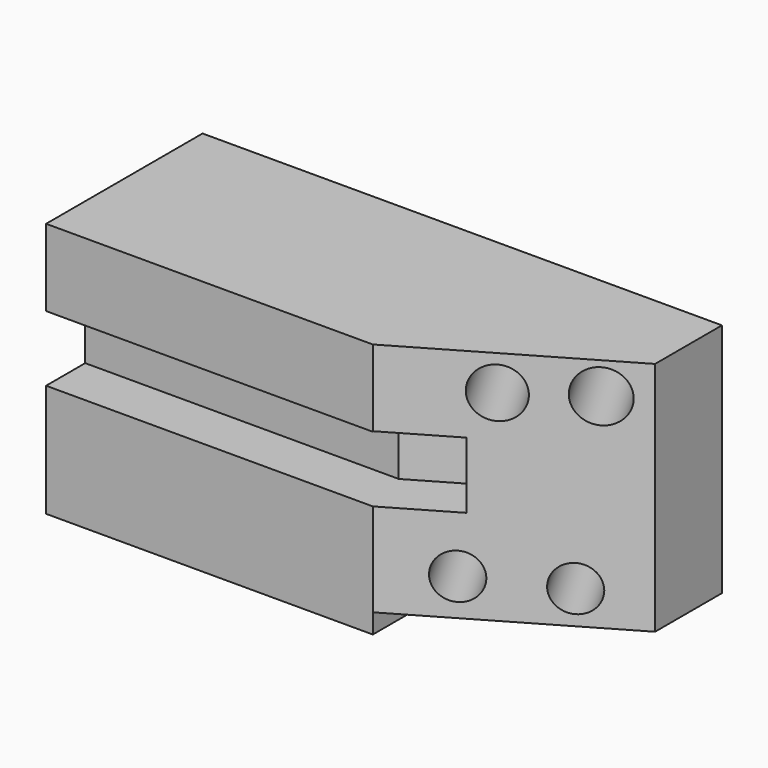
from build123d import *

# Parameters (mm, degrees)
F0_W      = 134.9061876535
F0_H      = 66.3261953741
F1_DEPTH  = 50.8
F3_DEPTH  = 66.3271953741
F4_W      = 84.8675490558
F4_H      = 17.0645080507
F5_DEPTH  = 12.7
F7_DEPTH  = 12.7
F8_R      = 5.8831218442
F9_DEPTH  = 86.5717253991
F10_R     = 5.86386151
F10_R_2   = 6.47563258
F10_R_3   = 6.6609419445
F11_DEPTH = 86.5717253991
F13_DEPTH = 5.08


with BuildPart() as f1:
    # F0 (on Front) → F1 (new body)
    with BuildSketch(Plane.XZ):
        with Locations((2.2538006306, 3.86366155)):
            Rectangle(F0_W, F0_H)
    extrude(amount=F1_DEPTH)

    # F2 (on face) → F3 (cut, through all)
    with BuildSketch(Plane(origin=(0, 0, -29.2994361371), x_dir=(1, 0, 0), z_dir=(0, 0, -1))):
        Polygon((69.7068944573, 50.8), (19.6682558596, 50.8), (69.7068944573, 21.7111355625), align=None)
    extrude(amount=-F3_DEPTH, mode=Mode.SUBTRACT)

    # F4 (on face) → F5 (cut)
    with BuildSketch(Plane.XZ.offset(50.8)):
        with Locations((-22.7655186683, 8.5322540253)):
            Rectangle(F4_W, F4_H)
    extrude(amount=-F5_DEPTH, mode=Mode.SUBTRACT)

    # F6 (on face) → F7 (cut)
    with BuildSketch(Plane(origin=(27.0401800955, -46.5144936243, 0), x_dir=(0.864532465, 0.5025769761, 0), z_dir=(0.5025769761, -0.864532465, 0))):
        Polygon((-8.527064667, 17.0645080507), (-8.527064667, 0), (10.6996493414, 0), (10.6996493414, 17.1985588968), (-8.527064667, 17.1985588968), align=None)
    extrude(amount=-F7_DEPTH, mode=Mode.SUBTRACT)

    # F8 (on face) → F9 (cut, through all)
    with BuildSketch(Plane(origin=(27.0401800955, -46.5144936243, 0), x_dir=(0.864532465, 0.5025769761, 0), z_dir=(0.5025769761, -0.864532465, 0))):
        with Locations((8.8778939098, -14.6497180685)):
            Circle(F8_R)
    extrude(amount=-F9_DEPTH, mode=Mode.SUBTRACT)

    # F10 (on face) → F11 (cut, through all)
    with BuildSketch(Plane(origin=(27.0401800955, -46.5144936243, 0), x_dir=(0.864532465, 0.5025769761, 0), z_dir=(0.5025769761, -0.864532465, 0))):
        with Locations((33.0762192607, -15.5928293243)):
            Circle(F10_R)
        with Locations((17.0135609806, 27.9336217791)):
            Circle(F10_R_2)
        with Locations((38.3210889995, 28.7759676576)):
            Circle(F10_R_3)
    extrude(amount=-F11_DEPTH, mode=Mode.SUBTRACT)

    # F12 (on face) → F13 (cut)
    with BuildSketch(Plane(origin=(0, 0, -29.2994361371), x_dir=(1, 0, 0), z_dir=(0, 0, -1))):
        Polygon((69.7068944573, 21.7111355625), (19.6682558596, 50.8), (19.6682558596, 0), (69.7068944573, 0), align=None)
    extrude(amount=-F13_DEPTH, mode=Mode.SUBTRACT)


solid = f1.part
